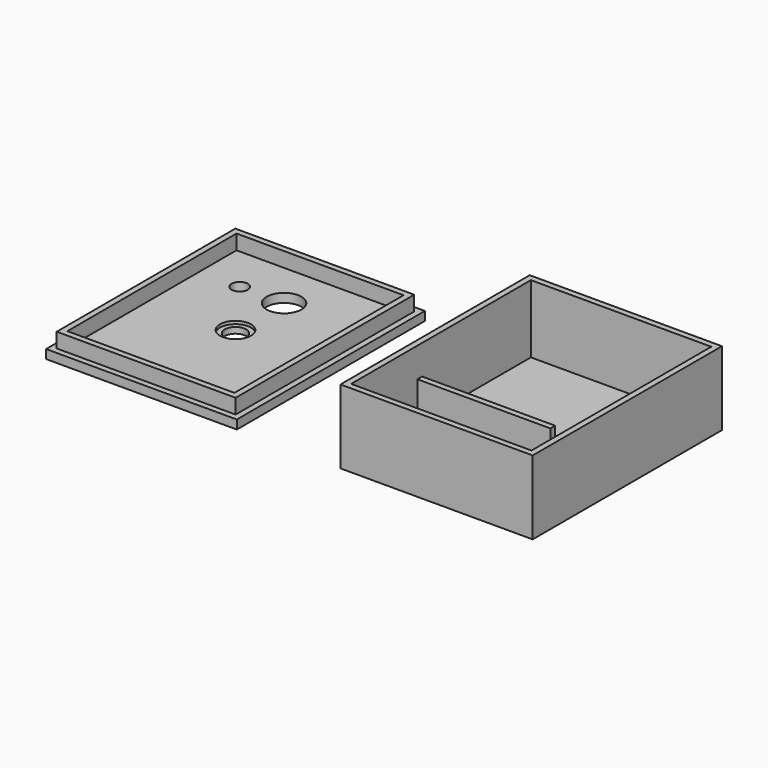
from build123d import *

# Parameters (mm, degrees)
F1_DEPTH = 2
F0_W     = 65
F0_H     = 80
F2_DEPTH = 25
F0_W_2   = 45
F0_H_2   = 2
F3_DEPTH = 15
F0_W_3   = 64.5
F0_H_3   = 79.5
F0_W_4   = 60.5
F0_H_4   = 75.5
F0_W_5   = 56.5
F0_H_5   = 71.5
F0_R     = 5.25
F0_R_2   = 2.75
F0_R_3   = 5.875
F4_DEPTH = 3
F5_DEPTH = 8
F0_R_4   = 3.625
F6_DEPTH = 2


with BuildPart() as f1:
    # F0 (on Top) → F1 (new body)
    with BuildSketch(Plane.XY):
        Polygon((30.5, -38), (30.5, 38), (-30.5, 38), (-30.5, -8), (14.5, -8), (14.5, -10), (-30.5, -10), (-30.5, -38), align=None)
    extrude(amount=F1_DEPTH)

    # F0 (on Top) → F2 (join)
    with BuildSketch(Plane.XY):
        Rectangle(F0_W, F0_H)
        Polygon((-30.5, 38), (30.5, 38), (30.5, -38), (-30.5, -38), (-30.5, -10), (-30.5, -8), align=None, mode=Mode.SUBTRACT)
    extrude(amount=F2_DEPTH)

    # F0 (on Top) → F3 (join)
    with BuildSketch(Plane.XY):
        with Locations((-8, -9)):
            Rectangle(F0_W_2, F0_H_2)
    extrude(amount=F3_DEPTH)


with BuildPart() as f4:
    # F0 (on Top) → F4 (new body)
    with BuildSketch(Plane.XY):
        with Locations((-100, 0)):
            Rectangle(F0_W_3, F0_H_3)
        with Locations((-100, 0)):
            Rectangle(F0_W_4, F0_H_4, mode=Mode.SUBTRACT)
        with Locations((-100, 0)):
            Rectangle(F0_W_5, F0_H_5)
        with Locations((-100, 0)):
            Circle(F0_R, mode=Mode.SUBTRACT)
        with Locations((-114.575721, 20)):
            Circle(F0_R_2, mode=Mode.SUBTRACT)
        with Locations((-99.575721, 20)):
            Circle(F0_R_3, mode=Mode.SUBTRACT)
    extrude(amount=F4_DEPTH)

    # F0 (on Top) → F5 (join)
    with BuildSketch(Plane.XY):
        with Locations((-100, 0)):
            Rectangle(F0_W_4, F0_H_4)
        with Locations((-100, 0)):
            Rectangle(F0_W_5, F0_H_5, mode=Mode.SUBTRACT)
    extrude(amount=F5_DEPTH)

    # F0 (on Top) → F6 (join)
    with BuildSketch(Plane.XY):
        with Locations((-100, 0)):
            Circle(F0_R)
        with Locations((-100, 0)):
            Circle(F0_R_4, mode=Mode.SUBTRACT)
    extrude(amount=F6_DEPTH)


solid = Compound([f1.part, f4.part])
